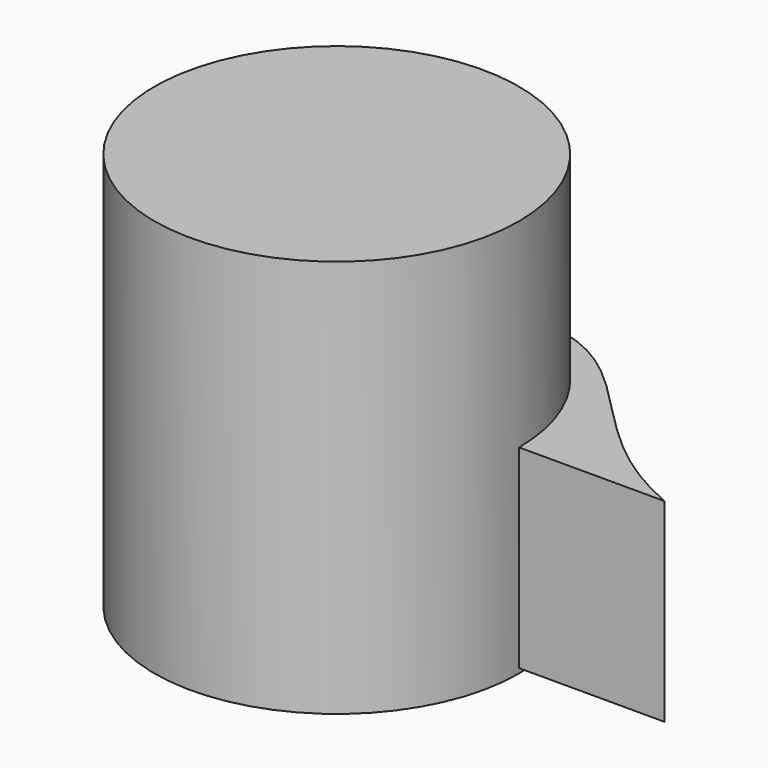
from build123d import *

# Parameters (mm, degrees)
F3_DEPTH = 58.674


with BuildPart() as f1:
    # F0 (on Front) → F1 (revolve)
    with BuildSketch(Plane.XZ):
        Polygon((27.523137, 37.01387), (27.523137, 60.107984), (-27.523137, 60.107984), (-27.523137, -60.107984), (27.523137, -60.107984), (27.523137, -54.729901), align=None)
    revolve(axis=Axis((-27.523137, 0, 0), (0, 0, -1)))

    # F2 (on Top) → F3 (join)
    with BuildSketch(Plane.XY):
        with BuildLine():
            Line((0, 0), (71.496874, 0))
            add(Edge.make_bspline(
                [(71.496874, 0), (30.049184, 17.29304), (23.930628, 55.467509), (-13.312755, 53.206302)],
                knots=[0, 0, 0, 0, 100.11785, 100.11785, 100.11785, 100.11785], degree=3))
            Line((-13.312755, 53.206302), (0, 0))
        make_face()
    extrude(amount=-F3_DEPTH)


solid = f1.part
